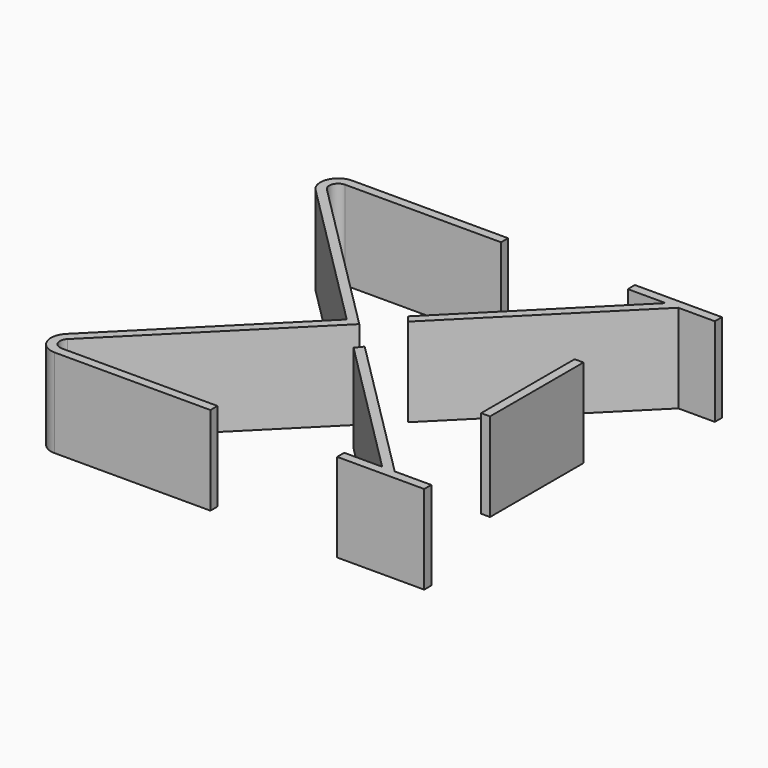
from build123d import *

# Parameters (mm, degrees)
F0_W     = 1
F0_H     = 13.177095
F1_DEPTH = 10


with BuildPart() as f1:
    # F0 (on Top) → F1 (new body)
    with BuildSketch(Plane.XY):
        with Locations((19.5, 0.034397)):
            Rectangle(F0_W, F0_H)
        with BuildLine():
            ThreePointArc((-17.585786, -20), (-18.509666, -19.382683), (-18.292893, -18.292893))
            Line((-18.292893, -18.292893), (0, 0))
            Line((0, 0), (-18.292893, 18.292893))
            ThreePointArc((-18.292893, 18.292893), (-18.509666, 19.382683), (-17.585786, 20))
            Line((-17.585786, 20), (0, 20))
            Line((0, 20), (0, 21))
            Line((0, 21), (-17.585786, 21))
            ThreePointArc((-17.585786, 21), (-19.433546, 19.765367), (-19, 17.585786))
            Line((-19, 17.585786), (-1.414214, 0))
            Line((-1.414214, 0), (-19, -17.585786))
            ThreePointArc((-19, -17.585786), (-19.433546, -19.765367), (-17.585786, -21))
            Line((-17.585786, -21), (0, -21))
            Line((0, -21), (0, -20))
            Line((0, -20), (-17.585786, -20))
        make_face()
        Polygon((2.424336, 3.838549), (3.048253, 3.048253), (20, 20), (24.126568, 20), (24.126568, 21), (19.585786, 21), (14.304577, 21), (14.304577, 20), (18.585786, 20), align=None)
        Polygon((20, -20), (3.048253, -3.048253), (2.424336, -3.838549), (18.585786, -20), (14.304577, -20), (14.304577, -21), (19.585786, -21), (24.126568, -21), (24.126568, -20), align=None)
    extrude(amount=F1_DEPTH)


solid = f1.part
